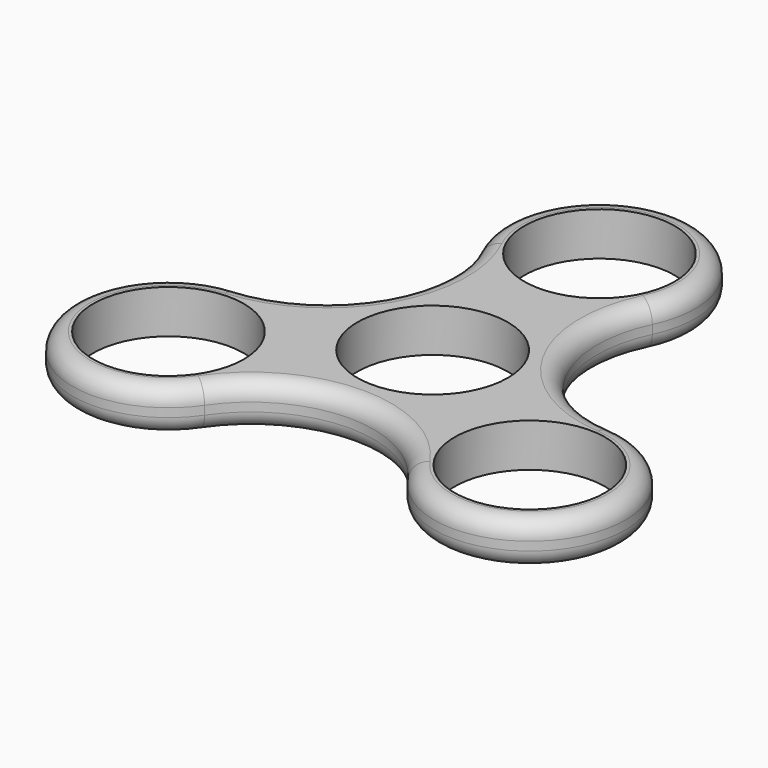
from build123d import *

# Parameters (mm, degrees)
F0_R     = 10.9982
F1_DEPTH = 6.35
F2_R     = 2.54


with BuildPart() as f1:
    # F0 (on Top) → F1 (new body)
    with BuildSketch(Plane.XY):
        with BuildLine():
            ThreePointArc((27.419616, -1.307519), (13.19288, 7.616913), (12.577464, 24.399843))
            ThreePointArc((12.577464, 24.399843), (0, 44.45), (-12.577464, 24.399843))
            ThreePointArc((-12.577464, 24.399843), (-13.19288, 7.616913), (-27.419616, -1.307519))
            ThreePointArc((-27.419616, -1.307519), (-38.494829, -22.225), (-14.842152, -23.092325))
            ThreePointArc((-14.842152, -23.092325), (0, -15.233826), (14.842152, -23.092325))
            ThreePointArc((14.842152, -23.092325), (38.494829, -22.225), (27.419616, -1.307519))
        make_face()
        with Locations((-26.396454, -15.24)):
            Circle(F0_R, mode=Mode.SUBTRACT)
        with Locations((26.396454, -15.24)):
            Circle(F0_R, mode=Mode.SUBTRACT)
        Circle(F0_R, mode=Mode.SUBTRACT)
        with Locations((0, 30.48)):
            Circle(F0_R, mode=Mode.SUBTRACT)
    extrude(amount=F1_DEPTH)

    # F2
    f2_edges = [f1.edges().sort_by_distance(p)[0] for p in [
        (0, -15.233826, 6.35),
        (13.19288, 7.616913, 0),
    ]]
    fillet(f2_edges, radius=F2_R)


solid = f1.part
